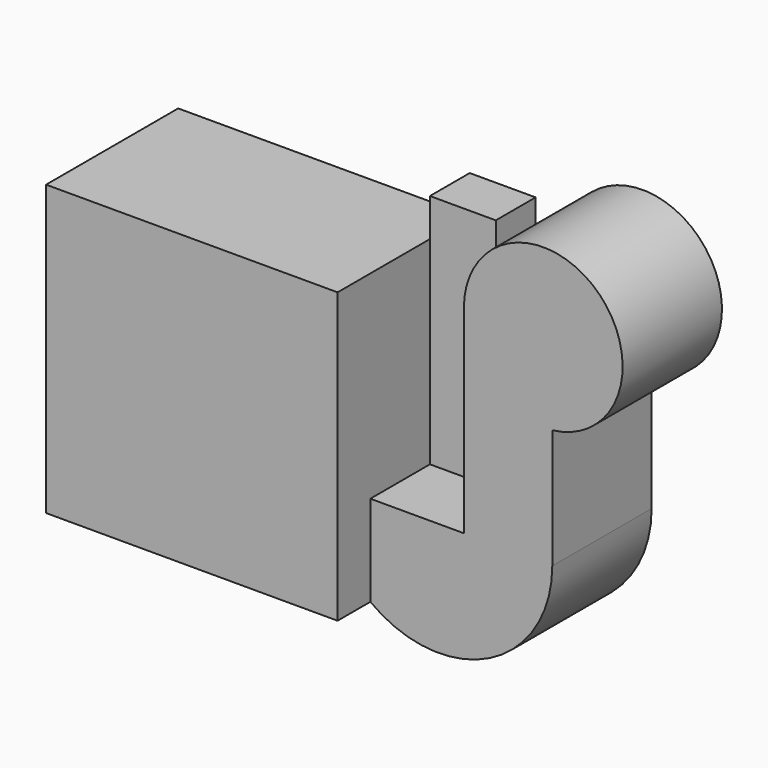
from build123d import *

# Parameters (mm, degrees)
F0_W     = 53.7313818932
F0_H     = 72.609975934
F1_DEPTH = 75.4805505276
F0_W_2   = 40.0392413139
F0_H_2   = 23.0277478695
F2_DEPTH = 30.2285254002
F3_DEPTH = 100.3713980317


with BuildPart() as f1:
    # F0 (on Front) → F1 (new body)
    with BuildSketch(Plane.XZ):
        with Locations((172.2931265831, 4.7715082765)):
            Rectangle(F0_W, F0_H)
        with BuildLine():
            ThreePointArc((199.1588175297, 41.0764962435), (225.7710662807, 124.9978706097), (145.4274356365, 88.9991223812))
            Line((145.4274356365, 88.9991223812), (145.4274356365, 41.0764962435))
            Line((145.4274356365, 41.0764962435), (199.1588175297, 41.0764962435))
        make_face()
        with BuildLine():
            Line((145.4274356365, -31.5334796906), (88.5841548443, -31.5334796906))
            Line((88.5841548443, -31.5334796906), (88.5841548443, -86.717069149))
            ThreePointArc((88.5841548443, -86.717069149), (160.9384717068, -93.3234153061), (199.1588175297, -31.5334796906))
            Line((199.1588175297, -31.5334796906), (145.4274356365, -31.5334796906))
        make_face()
    extrude(amount=F1_DEPTH)

    # F0 (on Front) → F2 (join)
    with BuildSketch(Plane.XZ):
        Polygon((128.6233961582, 88.9991223812), (88.5841548443, 88.9991223812), (88.5841548443, -31.5334796906), (145.4274356365, -31.5334796906), (145.4274356365, 41.0764962435), (145.4274356365, 88.9991223812), align=None)
        with Locations((108.6037755013, 100.512996316)):
            Rectangle(F0_W_2, F0_H_2)
        with BuildLine():
            Line((145.4274356365, -31.5334796906), (88.5841548443, -31.5334796906))
            Line((88.5841548443, -31.5334796906), (88.5841548443, -86.717069149))
            ThreePointArc((88.5841548443, -86.717069149), (160.9384717068, -93.3234153061), (199.1588175297, -31.5334796906))
            Line((199.1588175297, -31.5334796906), (145.4274356365, -31.5334796906))
        make_face()
        Polygon((128.6233961582, 88.9991223812), (88.5841548443, 88.9991223812), (88.5841548443, -31.5334796906), (145.4274356365, -31.5334796906), (145.4274356365, 41.0764962435), (145.4274356365, 88.9991223812), align=None)
        with Locations((108.6037755013, 100.512996316)):
            Rectangle(F0_W_2, F0_H_2)
        with BuildLine():
            ThreePointArc((199.1588175297, 41.0764962435), (225.7710662807, 124.9978706097), (145.4274356365, 88.9991223812))
            Line((145.4274356365, 88.9991223812), (145.4274356365, 41.0764962435))
            Line((145.4274356365, 41.0764962435), (199.1588175297, 41.0764962435))
        make_face()
        with Locations((172.2931265831, 4.7715082765)):
            Rectangle(F0_W, F0_H)
    extrude(amount=F2_DEPTH)

    # F0 (on Front) → F3 (join)
    with BuildSketch(Plane.XZ):
        Polygon((88.5841548443, -31.5334796906), (88.5841548443, 88.9991223812), (-88.5842293501, 88.9991223812), (-88.5842293501, -86.717069149), (88.5841548443, -86.717069149), align=None)
    extrude(amount=F3_DEPTH)


solid = f1.part
